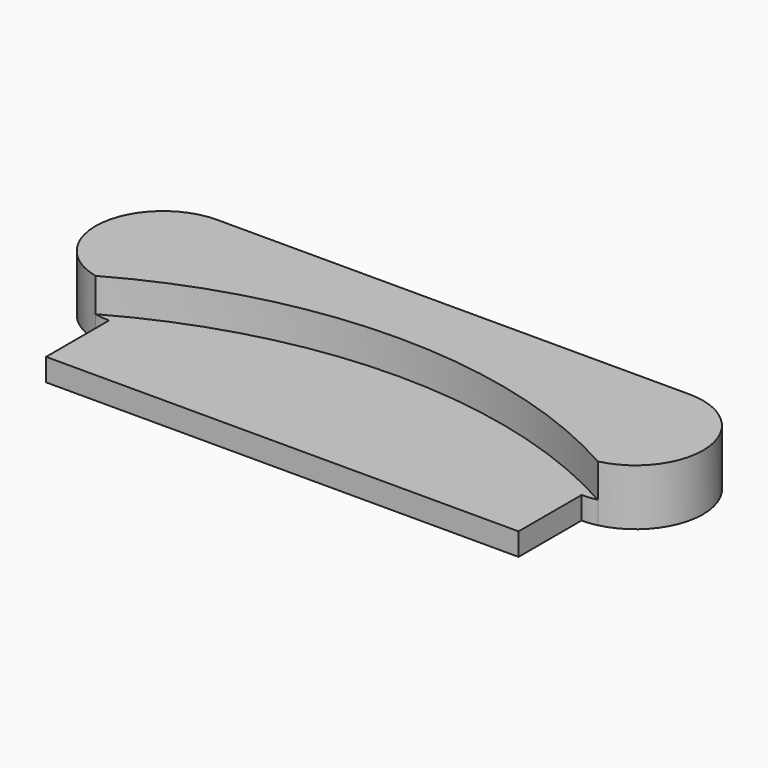
from build123d import *

# Parameters (mm, degrees)
F1_DEPTH = 5
F2_DEPTH = 2


with BuildPart() as f1:
    # F0 (on Top) → F1 (new body)
    with BuildSketch(Plane.XY):
        with BuildLine():
            ThreePointArc((-22.322925, 39.647661), (0, 45.5), (22.322925, 39.647661))
            ThreePointArc((22.322925, 39.647661), (26.96297, 46.16557), (21, 51.5))
            Line((21, 51.5), (-21, 51.5))
            ThreePointArc((-21, 51.5), (-26.96297, 46.16557), (-22.322925, 39.647661))
        make_face()
    extrude(amount=F1_DEPTH)

    # F0 (on Top) → F2 (join)
    with BuildSketch(Plane.XY):
        with BuildLine():
            ThreePointArc((21, 39.5), (21.66557, 39.53703), (22.322925, 39.647661))
            ThreePointArc((22.322925, 39.647661), (0, 45.5), (-22.322925, 39.647661))
            ThreePointArc((-22.322925, 39.647661), (-21.66557, 39.53703), (-21, 39.5))
            Line((-21, 39.5), (-21, 32.5))
            Line((-21, 32.5), (21, 32.5))
            Line((21, 32.5), (21, 39.5))
        make_face()
    extrude(amount=F2_DEPTH)


solid = f1.part
